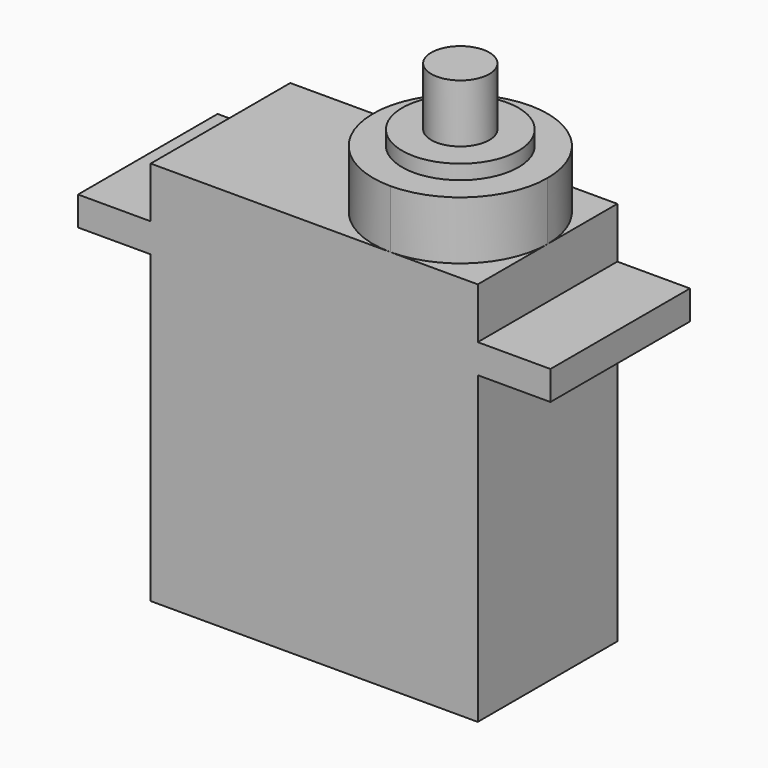
from build123d import *

# Parameters (mm, degrees)
F0_W     = 22.5
F0_H     = 12
F1_DEPTH = 21
F2_W     = 5
F2_H     = 12
F2_R     = 4
F2_R_2   = 2
F3_DEPTH = 2
F4_DEPTH = 5.5
F5_DEPTH = 9.5
F6_DEPTH = 10.5
F7_DEPTH = 14.5


with BuildPart() as f1:
    # F0 (on Top) → F1 (new body)
    with BuildSketch(Plane.XY):
        Rectangle(F0_W, F0_H)
    extrude(amount=F1_DEPTH)

    # F2 (on face) → F3 (join)
    with BuildSketch(Plane.XY.offset(21)):
        with BuildLine():
            Line((11.25, 6), (5.25, 6))
            ThreePointArc((5.25, 6), (9.4926406871, 4.2426406871), (11.25, 0))
            Line((11.25, 0), (11.25, 6))
        make_face()
        with Locations((-13.75, 0)):
            Rectangle(F2_W, F2_H)
        Polygon((16.25, 6), (11.25, 6), (11.25, 0), (11.25, -6), (16.25, -6), align=None)
        with BuildLine():
            Line((11.25, -6), (11.25, 0))
            ThreePointArc((11.25, 0), (9.4926406871, -4.2426406871), (5.25, -6))
            Line((5.25, -6), (11.25, -6))
        make_face()
        with BuildLine():
            ThreePointArc((11.25, 0), (9.4926406871, 4.2426406871), (5.25, 6))
            ThreePointArc((5.25, 6), (-0.75, 0), (5.25, -6))
            ThreePointArc((5.25, -6), (9.4926406871, -4.2426406871), (11.25, 0))
        make_face()
        with Locations((5.25, 0)):
            Circle(F2_R, mode=Mode.SUBTRACT)
        with Locations((5.25, 0)):
            Circle(F2_R)
        with Locations((5.25, 0)):
            Circle(F2_R_2, mode=Mode.SUBTRACT)
        with BuildLine():
            Line((5.25, 6), (-11.25, 6))
            Line((-11.25, 6), (-11.25, -6))
            Line((-11.25, -6), (5.25, -6))
            ThreePointArc((5.25, -6), (-0.75, 0), (5.25, 6))
        make_face()
    extrude(amount=F3_DEPTH)

    # F2 (on face) → F4 (join)
    with BuildSketch(Plane.XY.offset(21)):
        with BuildLine():
            Line((5.25, 6), (-11.25, 6))
            Line((-11.25, 6), (-11.25, -6))
            Line((-11.25, -6), (5.25, -6))
            ThreePointArc((5.25, -6), (-0.75, 0), (5.25, 6))
        make_face()
        with BuildLine():
            ThreePointArc((11.25, 0), (9.4926406871, 4.2426406871), (5.25, 6))
            ThreePointArc((5.25, 6), (-0.75, 0), (5.25, -6))
            ThreePointArc((5.25, -6), (9.4926406871, -4.2426406871), (11.25, 0))
        make_face()
        with Locations((5.25, 0)):
            Circle(F2_R, mode=Mode.SUBTRACT)
        with Locations((5.25, 0)):
            Circle(F2_R)
        with Locations((5.25, 0)):
            Circle(F2_R_2, mode=Mode.SUBTRACT)
        with BuildLine():
            Line((11.25, -6), (11.25, 0))
            ThreePointArc((11.25, 0), (9.4926406871, -4.2426406871), (5.25, -6))
            Line((5.25, -6), (11.25, -6))
        make_face()
        with BuildLine():
            Line((11.25, 6), (5.25, 6))
            ThreePointArc((5.25, 6), (9.4926406871, 4.2426406871), (11.25, 0))
            Line((11.25, 0), (11.25, 6))
        make_face()
    extrude(amount=F4_DEPTH)

    # F2 (on face) → F5 (join)
    with BuildSketch(Plane.XY.offset(21)):
        with BuildLine():
            ThreePointArc((11.25, 0), (9.4926406871, 4.2426406871), (5.25, 6))
            ThreePointArc((5.25, 6), (-0.75, 0), (5.25, -6))
            ThreePointArc((5.25, -6), (9.4926406871, -4.2426406871), (11.25, 0))
        make_face()
        with Locations((5.25, 0)):
            Circle(F2_R, mode=Mode.SUBTRACT)
        with Locations((5.25, 0)):
            Circle(F2_R)
        with Locations((5.25, 0)):
            Circle(F2_R_2, mode=Mode.SUBTRACT)
    extrude(amount=F5_DEPTH)

    # F2 (on face) → F6 (join)
    with BuildSketch(Plane.XY.offset(21)):
        with Locations((5.25, 0)):
            Circle(F2_R)
        with Locations((5.25, 0)):
            Circle(F2_R_2, mode=Mode.SUBTRACT)
    extrude(amount=F6_DEPTH)

    # F2 (on face) → F7 (join)
    with BuildSketch(Plane.XY.offset(21)):
        with Locations((5.25, 0)):
            Circle(F2_R_2)
    extrude(amount=F7_DEPTH)


solid = f1.part
